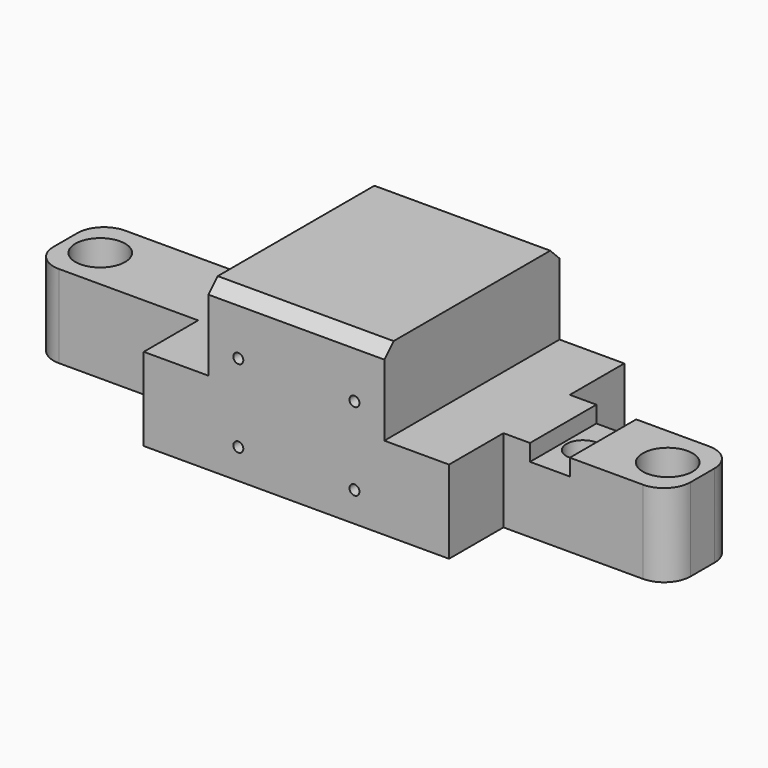
from build123d import *

# Parameters (mm, degrees)
F1_DEPTH      = 66
F3_DEPTH      = 72.501
F4_W          = 25
F4_H          = 25
F5_DEPTH      = 50
F5_DEPTH_BACK = 142
F6_R          = 7.5
F7_DEPTH      = 25.001
F8_R          = 5
F9_DEPTH      = 25
F10_R         = 8
F11_W         = 12
F11_H         = 25
F12_DEPTH     = 5
F14_D         = 3


with BuildPart() as f1:
    # F0 (on Front) → F1 (new body)
    with BuildSketch(Plane.XZ):
        Polygon((0, 25), (0, 0), (92, 0), (92, 25), (72.5, 25), (72.5, 50), (19.5, 50), (19.5, 25), align=None)
    extrude(amount=F1_DEPTH)

    # F2 (on face) → F3 (cut, through all)
    with BuildSketch(Plane.YZ.offset(72.5)):
        Polygon((-62.5, 50), (-66, 50), (-66, 46.5), align=None)
        Polygon((0, 46.5), (0, 50), (-3.5, 50), align=None)
    extrude(amount=-F3_DEPTH, mode=Mode.SUBTRACT)

    # F4 (on face) → F5 (join, two sides)
    with BuildSketch(Plane.YZ.offset(92)) as f5_sk:
        with Locations((-33, 12.5)):
            Rectangle(F4_W, F4_H)
    extrude(amount=F5_DEPTH)
    extrude(f5_sk.sketch, amount=-F5_DEPTH_BACK)

    # F6 (on face) → F7 (cut, through all)
    with BuildSketch(Plane.XY.offset(25)):
        with Locations((131.5, -33)):
            Circle(F6_R)
        with Locations((-39.5, -33)):
            Circle(F6_R)
    extrude(amount=-F7_DEPTH, mode=Mode.SUBTRACT)

    # F8 (on face) → F9 (cut)
    with BuildSketch(Plane.XY.offset(25)):
        with Locations((106, -33)):
            Circle(F8_R)
    extrude(amount=-F9_DEPTH, mode=Mode.SUBTRACT)

    # F10
    f10_edges = [f1.edges().sort_by_distance(p)[0] for p in [
        (142, -20.5, 12.5),
        (142, -45.5, 12.5),
        (-50, -45.5, 12.5),
        (-50, -20.5, 12.5),
    ]]
    fillet(f10_edges, radius=F10_R)

    # F11 (on face) → F12 (cut)
    with BuildSketch(Plane.XY.offset(25)):
        with Locations((106, -33)):
            Rectangle(F11_W, F11_H)
    extrude(amount=-F12_DEPTH, mode=Mode.SUBTRACT)

    # F14 (through all)
    with Locations(Plane.XZ.offset(66)):
        with Locations((28.5, 32.5), (63.5, 32.5), (63.5, 9), (28.5, 9)):
            Hole(F14_D / 2)


solid = f1.part
